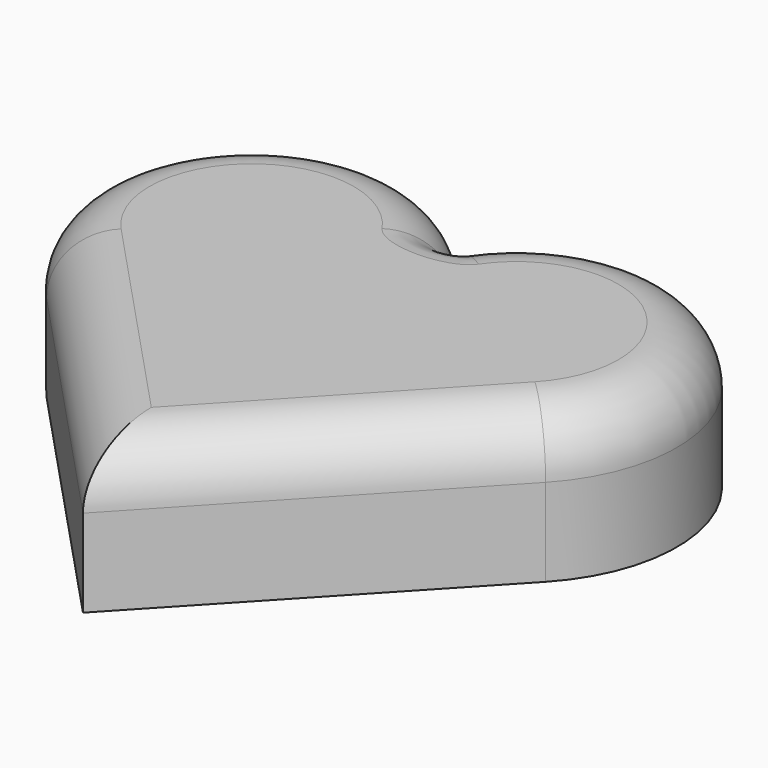
from build123d import *

# Parameters (mm, degrees)
PAD_DEPTH = 2.5
FILLET_R  = 1


with BuildPart() as part:
    # Sketch → Pad (new body)
    with BuildSketch(Plane.XY):
        with BuildLine():
            ThreePointArc((0, 0), (-3.989817, 0.583782), (-4.272701, -3.438583))
            Line((-4.272701, -3.438583), (0, -8))
            Line((4.272701, -3.438583), (0, -8))
            ThreePointArc((4.272701, -3.438583), (3.989817, 0.583782), (0, 0))
        make_face()
    extrude(amount=PAD_DEPTH)

    # Fillet
    fillet_edges = [part.edges().sort_by_distance(p)[0] for p in [
        (-3.989817, 0.583782, 2.5),
        (-2.13635, -5.719291, 2.5),
        (2.13635, -5.719291, 2.5),
        (3.989817, 0.583782, 2.5),
    ]]
    fillet(fillet_edges, radius=FILLET_R)


solid = part.part
